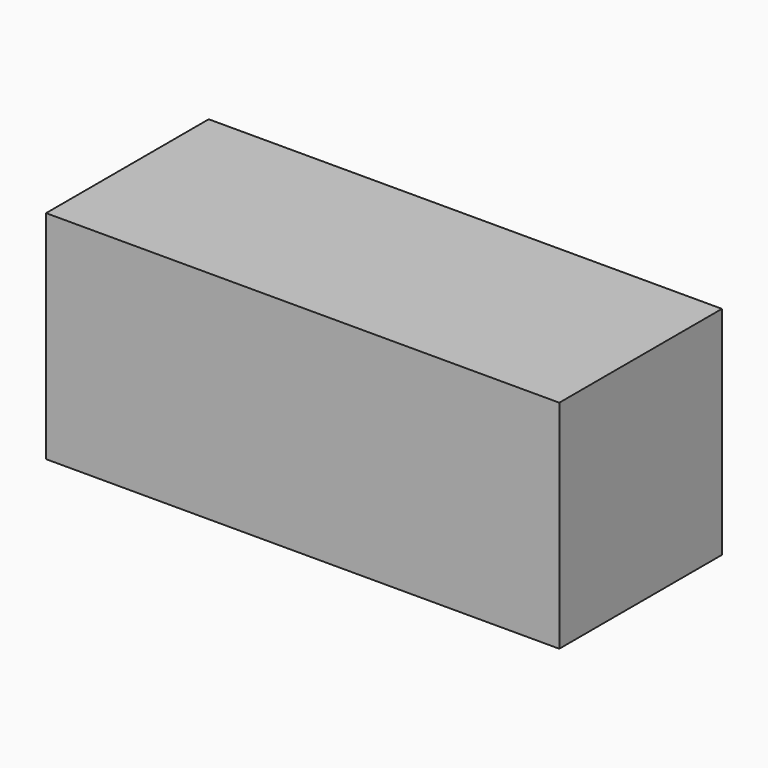
from build123d import *

# Parameters (mm, degrees)
F6_W      = 13.4
F6_H      = 4.1
F0_DEPTH  = 6.5
F1_DEPTH  = 1
F2_DEPTH  = 1
F4_DEPTH  = 1
F3_W      = 5.1
F3_H      = 6.5
F4_FACE_W = 6.1
F4_FACE_H = 6.5
F7_DEPTH  = 1


with BuildPart() as f0:
    # F6 (on Top) → F0 (new body)
    with BuildSketch(Plane.XY):
        with Locations((-1.5027523041, 2.5173463665)):
            Rectangle(F6_W, F6_H)
    extrude(amount=F0_DEPTH)

    # F1 (add): a face of the model
    f1_faces = [f0.faces().sort_by_distance(p)[0] for p in [
        (-1.5027523041, 4.5673463665, 3.25),
    ]]
    extrude(f1_faces, amount=F1_DEPTH)

    # F2 (add): a face of the model
    f2_faces = [f0.faces().sort_by_distance(p)[0] for p in [
        (5.1972476959, 3.0173463665, 3.25),
    ]]
    extrude(f2_faces, amount=F2_DEPTH)

    # F4 (add): a face of the model
    f4_faces = [f0.faces().sort_by_distance(p)[0] for p in [
        (-1.0027523041, 0.4673463665, 3.25),
    ]]
    extrude(f4_faces, amount=F4_DEPTH)

    # F3 (on face) + F4_face (on face) → F7 (join)
    with BuildSketch(Plane(origin=(-8.2027523041, 0, 0), x_dir=(0, -1, 0), z_dir=(-1, 0, 0))):
        with Locations((-3.0173463665, 3.25)):
            Rectangle(F3_W, F3_H)
    with BuildSketch(Plane(origin=(-8.2027523041, 2.5173463665, 3.25), x_dir=(0, -1, 0), z_dir=(-1, 0, 0))):
        Rectangle(F4_FACE_W, F4_FACE_H)
    extrude(amount=F7_DEPTH)


solid = f0.part
